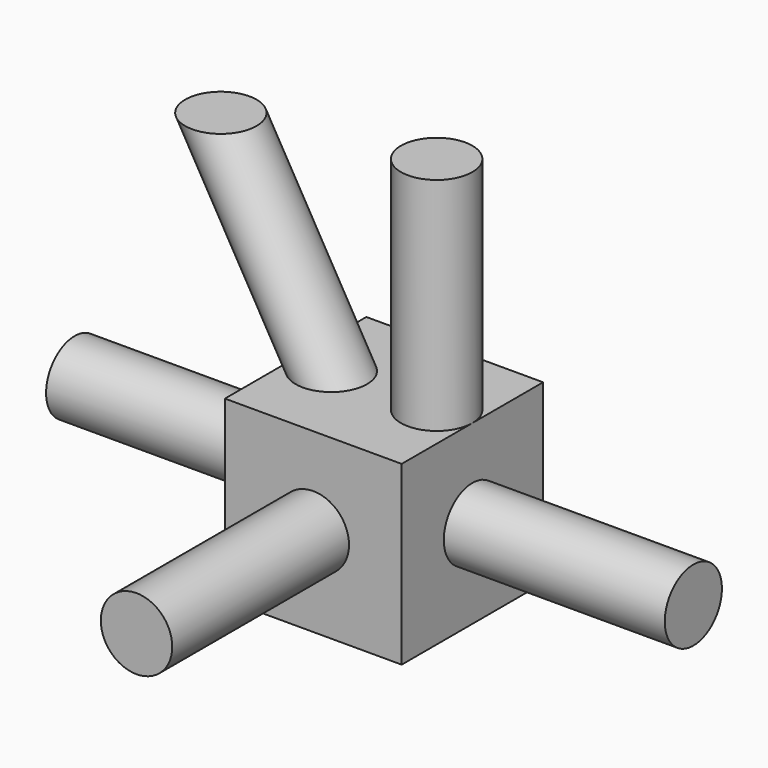
from build123d import *

# Parameters (mm, degrees)
F0_W      = 12
F0_H      = 12
F1_DEPTH  = 12
F2_R      = 2.425
F3_DEPTH  = 15
F4_R      = 2.425
F5_DEPTH  = 15
F6_R      = 2.425
F7_DEPTH  = 15
F8_R      = 2.425
F11_DEPTH = 15


with BuildPart() as f1:
    # F0 (on Top) → F1 (new body)
    with BuildSketch(Plane.XY):
        with Locations((-16.311498, 9.258204)):
            Rectangle(F0_W, F0_H)
    extrude(amount=F1_DEPTH)

    # F2 (on face) → F3 (join)
    with BuildSketch(Plane.YZ.offset(-10.311498)):
        with Locations((9.258204, 6)):
            Circle(F2_R)
    extrude(amount=F3_DEPTH)

    # F4 (on face) → F5 (join)
    with BuildSketch(Plane(origin=(-22.311498, 0, 0), x_dir=(0, -1, 0), z_dir=(-1, 0, 0))):
        with Locations((-9.258204, 6)):
            Circle(F4_R)
    extrude(amount=F5_DEPTH)

    # F6 (on face) → F7 (join)
    with BuildSketch(Plane.XZ.offset(-3.258204)):
        with Locations((-16.311498, 6)):
            Circle(F6_R)
    extrude(amount=F7_DEPTH)

    # F10: sweep along a path in F9
    with BuildLine(Plane(origin=(0, 15.258204, 0), x_dir=(-1, 0, 0), z_dir=(0, 1, 0))) as f10_path:
        Line((19.886498, 12), (27.386498, 24.990381))
    # F8 (on face) → F10 (sweep)
    with BuildSketch(Plane.XY.offset(12)):
        with BuildLine():
            ThreePointArc((-22.311498, 9.258204), (-19.886498, 6.833204), (-17.461498, 9.258204))
            ThreePointArc((-17.461498, 9.258204), (-19.886498, 11.683204), (-22.311498, 9.258204))
        make_face()
    sweep(path=f10_path.line)

    # F8 (on face) → F11 (join)
    with BuildSketch(Plane.XY.offset(12)):
        with Locations((-12.736498, 9.258204)):
            Circle(F8_R)
    extrude(amount=F11_DEPTH)


solid = f1.part
